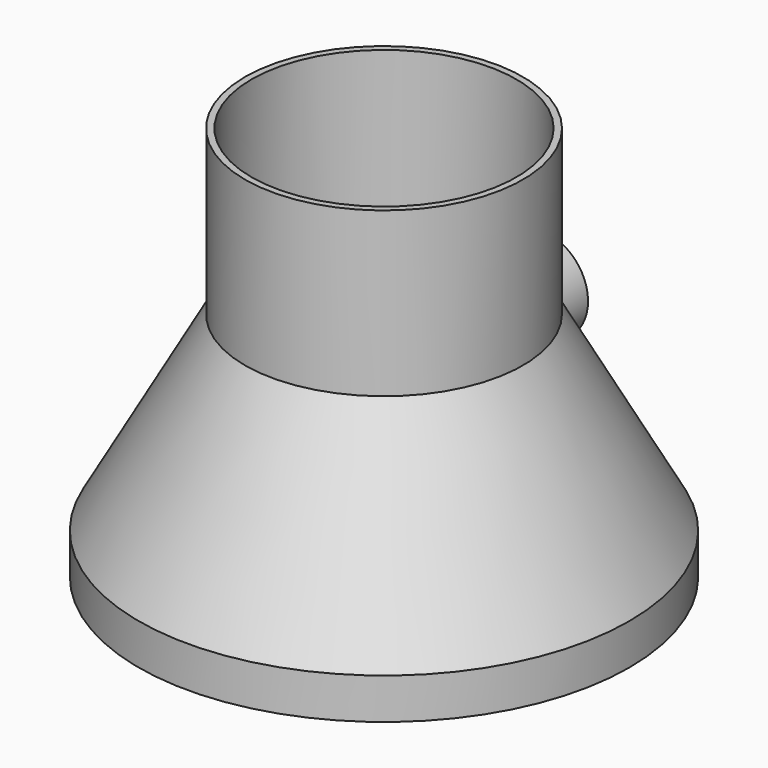
from build123d import *

# Parameters (mm, degrees)
SKETCH012_W     = 1
SKETCH012_H     = 14
PAD004_DEPTH    = 21
SKETCH013_R     = 5.75
PAD005_DEPTH    = 14
SKETCH014_R     = 5
POCKET006_DEPTH = 14


with BuildPart() as part:
    # Sketch011 → Revolution (revolve)
    with BuildSketch(Plane.XZ):
        Polygon((0, 0), (-30, 0), (-30, 5), (-17, 28.3), (-17, 48.3), (-16.2, 48.3), (-16.2, 28.3), (-29.2, 5), (-29.2, 0.8), (0, 0.8), align=None)
    revolve(axis=Axis((0, 0, 0), (0, 0, 1)))

    # Sketch012 (on Face9 of Revolution) → Pad004 (new body)
    with BuildSketch(Plane(origin=(0, 0, 0.8), x_dir=(-1, 0, 0), z_dir=(0, 0, 1))):
        with Locations((0, -17)):
            Rectangle(SKETCH012_W, SKETCH012_H)
    extrude(amount=PAD004_DEPTH)

    # Sketch013 (on Face8 of Pad004) → Pad005 (join)
    with BuildSketch(Plane(origin=(0, 24, 0), x_dir=(1, 0, 0), z_dir=(0, 1, 0))):
        with Locations((0, -21.8)):
            Circle(SKETCH013_R)
    extrude(amount=-PAD005_DEPTH)

    # Sketch014 (on Face15 of Pad005) → Pocket006 (cut)
    with BuildSketch(Plane(origin=(0, 24, 0), x_dir=(1, 0, 0), z_dir=(0, 1, 0))):
        with Locations((0, -21.8)):
            Circle(SKETCH014_R)
    extrude(amount=-POCKET006_DEPTH, mode=Mode.SUBTRACT)


solid = part.part
